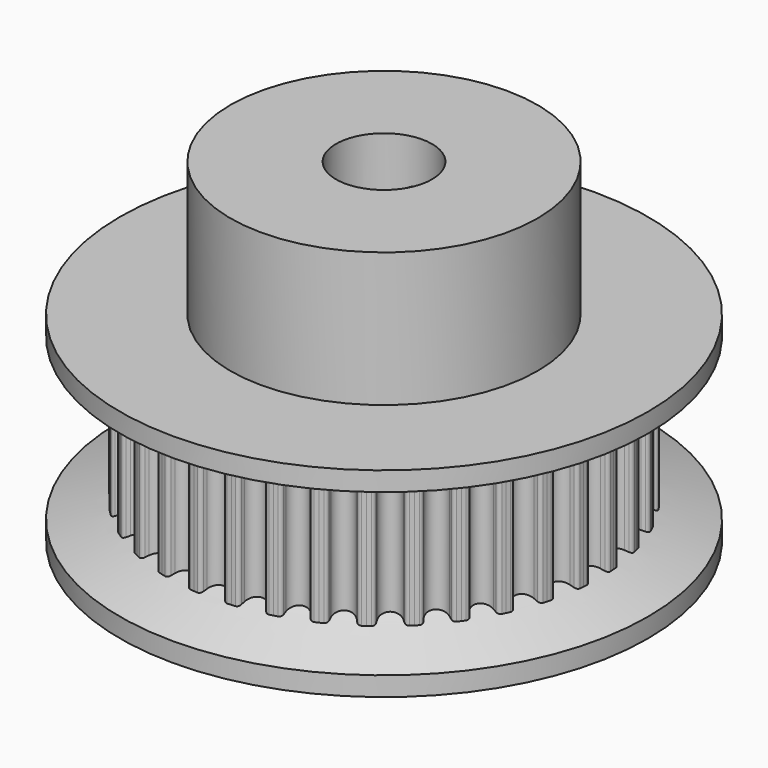
from build123d import *

# Parameters (mm, degrees)
F3_DEPTH  = 4.5
F4_COUNT  = 36
F7_R      = 8
F8_DEPTH  = 7
F9_R      = 2.5
F10_DEPTH = 50
F11_R     = 1.3
F12_DEPTH = 13.7519871831
F13_R     = 1.3
F14_DEPTH = 13.7519871831


with BuildPart() as f3:
    # F2 (on Top) → F3 (new body, symmetric)
    with BuildSketch(Plane.XY):
        with BuildLine():
            Line((0.9112268782, 10.4153708779), (0.9765936853, 11.1625169015))
            ThreePointArc((0.9765936853, 11.1625169015), (0.8760599377, 11.1708566273), (0.7754551833, 11.1782909275))
            ThreePointArc((0.7754551833, 11.1782909275), (0.6517529274, 11.1425545172), (0.5802680874, 11.0354599011))
            ThreePointArc((0.5802680874, 11.0354599011), (0.558049517, 10.9474029924), (0.5342352689, 10.859764156))
            ThreePointArc((0.5342352689, 10.859764156), (0.3350802744, 10.56772375), (0, 10.4551559026))
            ThreePointArc((0, 10.4551559026), (-0.3350802744, 10.56772375), (-0.5342352689, 10.859764156))
            ThreePointArc((-0.5342352689, 10.859764156), (-0.558049517, 10.9474029924), (-0.5802680874, 11.0354599011))
            ThreePointArc((-0.5802680874, 11.0354599011), (-0.6517529274, 11.1425545172), (-0.7754551833, 11.1782909275))
            ThreePointArc((-0.7754551833, 11.1782909275), (-0.8760599377, 11.1708566273), (-0.9765936853, 11.1625169015))
            Line((-0.9765936853, 11.1625169015), (-0.9112268782, 10.4153708779))
            Line((-0.9112268782, 10.4153708779), (0, 0))
            Line((0, 0), (0.9112268782, 10.4153708779))
        make_face()
        with BuildLine():
            Line((0.9112268782, 10.4153708779), (0.9765936853, 11.1625169015))
            ThreePointArc((0.9765936853, 11.1625169015), (0.8760599377, 11.1708566273), (0.7754551833, 11.1782909275))
            ThreePointArc((0.7754551833, 11.1782909275), (0.6517529274, 11.1425545172), (0.5802680874, 11.0354599011))
            ThreePointArc((0.5802680874, 11.0354599011), (0.558049517, 10.9474029924), (0.5342352689, 10.859764156))
            ThreePointArc((0.5342352689, 10.859764156), (0.3350802744, 10.56772375), (0, 10.4551559026))
            ThreePointArc((0, 10.4551559026), (-0.3350802744, 10.56772375), (-0.5342352689, 10.859764156))
            ThreePointArc((-0.5342352689, 10.859764156), (-0.558049517, 10.9474029924), (-0.5802680874, 11.0354599011))
            ThreePointArc((-0.5802680874, 11.0354599011), (-0.6517529274, 11.1425545172), (-0.7754551833, 11.1782909275))
            ThreePointArc((-0.7754551833, 11.1782909275), (-0.8760599377, 11.1708566273), (-0.9765936853, 11.1625169015))
            Line((-0.9765936853, 11.1625169015), (-0.9112268782, 10.4153708779))
            Line((-0.9112268782, 10.4153708779), (0, 0))
            Line((0, 0), (0.9112268782, 10.4153708779))
        make_face()
        with BuildLine():
            Line((0.9112268782, 10.4153708779), (0.9765936853, 11.1625169015))
            ThreePointArc((0.9765936853, 11.1625169015), (0.8760599377, 11.1708566273), (0.7754551833, 11.1782909275))
            ThreePointArc((0.7754551833, 11.1782909275), (0.6517529274, 11.1425545172), (0.5802680874, 11.0354599011))
            ThreePointArc((0.5802680874, 11.0354599011), (0.558049517, 10.9474029924), (0.5342352689, 10.859764156))
            ThreePointArc((0.5342352689, 10.859764156), (0.3350802744, 10.56772375), (0, 10.4551559026))
            ThreePointArc((0, 10.4551559026), (-0.3350802744, 10.56772375), (-0.5342352689, 10.859764156))
            ThreePointArc((-0.5342352689, 10.859764156), (-0.558049517, 10.9474029924), (-0.5802680874, 11.0354599011))
            ThreePointArc((-0.5802680874, 11.0354599011), (-0.6517529274, 11.1425545172), (-0.7754551833, 11.1782909275))
            ThreePointArc((-0.7754551833, 11.1782909275), (-0.8760599377, 11.1708566273), (-0.9765936853, 11.1625169015))
            Line((-0.9765936853, 11.1625169015), (-0.9112268782, 10.4153708779))
            Line((-0.9112268782, 10.4153708779), (0, 0))
            Line((0, 0), (0.9112268782, 10.4153708779))
        make_face()
    extrude(amount=F3_DEPTH, both=True)

    # F4: F3 ×36 about axis
    f4_axis = Axis((0, 0, 0), (0, 0, -1))


with BuildPart() as f3_1:
    add(f3.part)
    for i in range(1, F4_COUNT):
        add(f3.part.rotate(f4_axis, i * 360 / F4_COUNT))

    # F5 (on Front) → F6 (revolve)
    with BuildSketch(Plane.XZ):
        Polygon((13.7509870831, 4.5), (0, 4.5), (0, 2.3004155531), (10.4551559026, 2.3004155531), (13.7509870831, 3.5), align=None)
        Polygon((10.4551559026, -3.6995844469), (0, -3.6995844469), (0, -5.8991688938), (13.7509870831, -5.8991688938), (13.7509870831, -4.8991688938), align=None)
    revolve(axis=Axis((0, 0, 3.4002077766), (0, 0, 1)))

    # F7 (on face) → F8 (join)
    with BuildSketch(Plane.XY.offset(4.5)):
        Circle(F7_R)
    extrude(amount=F8_DEPTH)

    # F9 (on Top) → F10 (cut, symmetric)
    with BuildSketch(Plane.XY):
        Circle(F9_R)
    extrude(amount=F10_DEPTH, both=True, mode=Mode.SUBTRACT)

    # F11 (on Front) → F12 (cut, through all)
    with BuildSketch(Plane.XZ):
        with Locations((0, 8)):
            Circle(F11_R)
    extrude(amount=-F12_DEPTH, mode=Mode.SUBTRACT)

    # F13 (on Right) → F14 (cut, through all)
    with BuildSketch(Plane.YZ):
        with Locations((0, 8)):
            Circle(F13_R)
    extrude(amount=-F14_DEPTH, mode=Mode.SUBTRACT)


solid = f3_1.part
